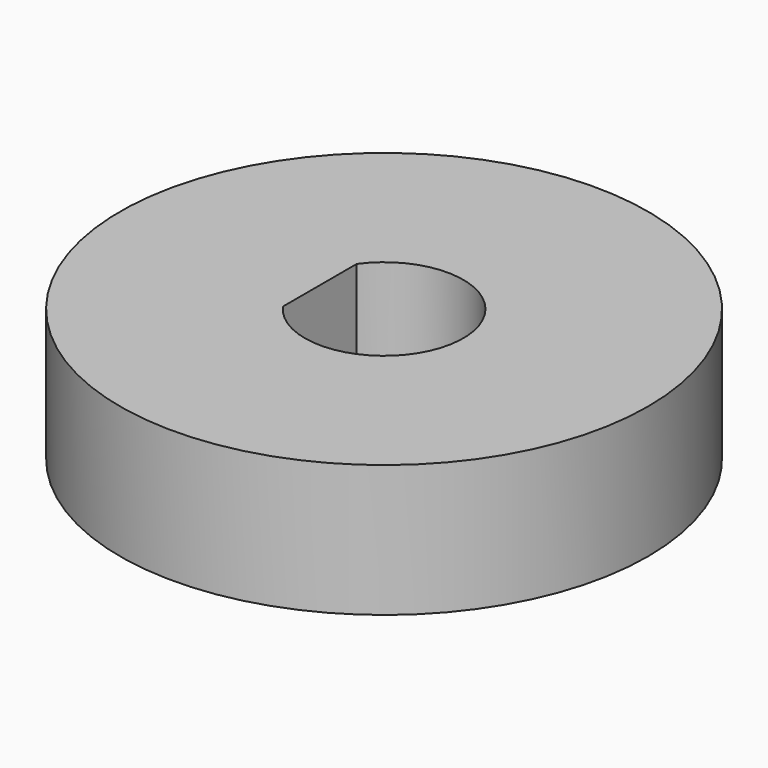
from build123d import *

# Parameters (mm, degrees)
F1_R     = 10
F2_DEPTH = 5


with BuildPart() as f2:
    # F1 (on face) → F2 (new body)
    with BuildSketch(Plane.XY):
        Circle(F1_R)
        with BuildLine():
            Line((-2.4366985862, -1.75), (-2.4366985862, 1.75))
            ThreePointArc((-2.4366985862, 1.75), (3, 0), (-2.4366985862, -1.75))
        make_face(mode=Mode.SUBTRACT)
    extrude(amount=F2_DEPTH)


solid = f2.part
